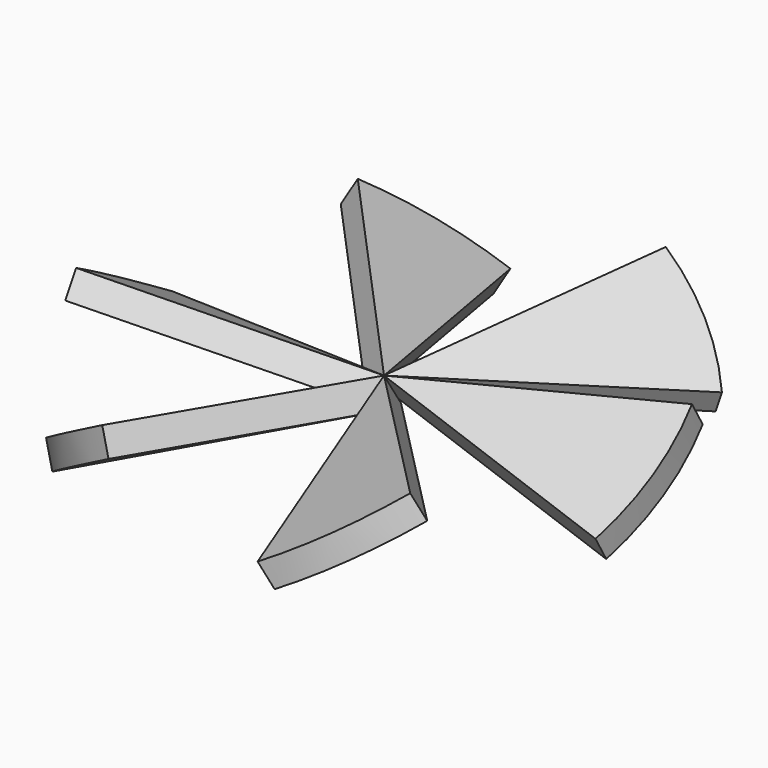
from build123d import *

# Parameters (mm, degrees)
F1_DEPTH = 10
F3_ANGLE = 30
F5_COUNT = 6


with BuildPart() as f1:
    # F0 (on Top) → F1 (new body)
    with BuildSketch(Plane.XY):
        with BuildLine():
            Line((96.592583, 25.881905), (0, 0))
            Line((0, 0), (96.592583, -25.881905))
            ThreePointArc((96.592583, -25.881905), (100, 0), (96.592583, 25.881905))
        make_face()
    extrude(amount=-F1_DEPTH)


with BuildPart() as f1_1:
    # F3: moved
    add(f1.part.rotate(Axis((57.545841, 0, 0), (1, 0, 0)), F3_ANGLE))


with BuildPart() as f5_1:
    # F5: instance of F1
    add(f1_1.part.rotate(Axis((0, 0, 41.13717), (0, 0, 1)), 1 * 360 / F5_COUNT))


with BuildPart() as f5_2:
    # F5: instance of F1
    add(f1_1.part.rotate(Axis((0, 0, 41.13717), (0, 0, 1)), 2 * 360 / F5_COUNT))


with BuildPart() as f5_3:
    # F5: instance of F1
    add(f1_1.part.rotate(Axis((0, 0, 41.13717), (0, 0, 1)), 3 * 360 / F5_COUNT))


with BuildPart() as f5_4:
    # F5: instance of F1
    add(f1_1.part.rotate(Axis((0, 0, 41.13717), (0, 0, 1)), 4 * 360 / F5_COUNT))


with BuildPart() as f5_5:
    # F5: instance of F1
    add(f1_1.part.rotate(Axis((0, 0, 41.13717), (0, 0, 1)), 5 * 360 / F5_COUNT))


solid = Compound([f1_1.part, f5_1.part, f5_2.part, f5_3.part, f5_4.part, f5_5.part])
